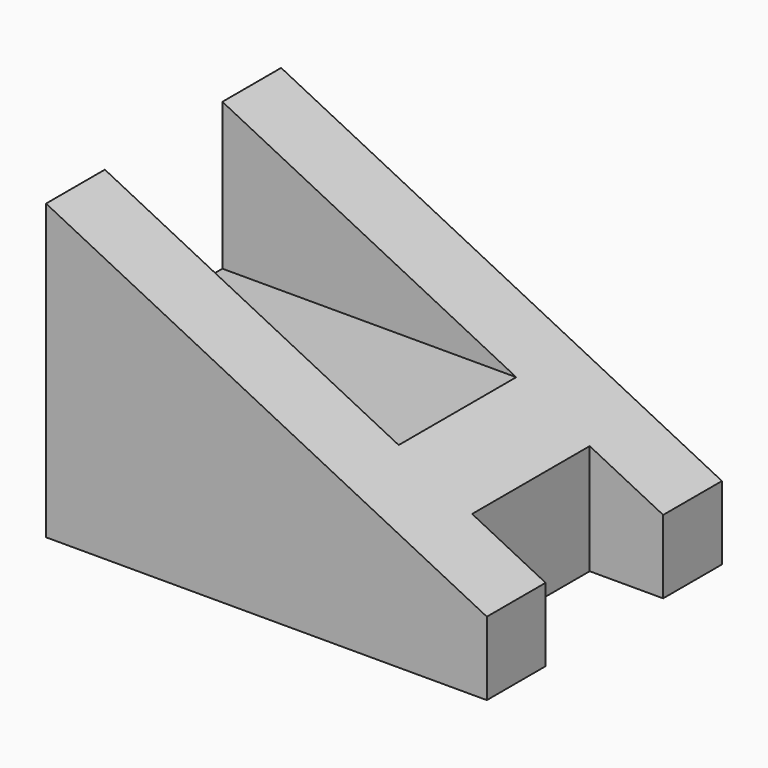
from build123d import *

# Parameters (mm, degrees)
F1_DEPTH = 10
F3_START = -5
F3_DEPTH = 10
F5_START = -5
F5_DEPTH = 10


with BuildPart() as f1:
    # F0 (on Front) → F1 (new body, symmetric)
    with BuildSketch(Plane.XZ):
        Polygon((0, 20), (0, 0), (30, 0), (30, 5), align=None)
    extrude(amount=F1_DEPTH, both=True)

    # F2 (on face) → F3 (cut)
    with BuildSketch(Plane.XZ.offset(10).offset(F3_START)):
        Polygon((20, 10), (0, 20), (0, 10), align=None)
    extrude(amount=-F3_DEPTH, mode=Mode.SUBTRACT)

    # F4 (on face) → F5 (cut)
    with BuildSketch(Plane.XZ.offset(10).offset(F5_START)):
        Polygon((30, 5), (25, 7.5), (25, 0), (30, 0), align=None)
    extrude(amount=-F5_DEPTH, mode=Mode.SUBTRACT)


solid = f1.part
